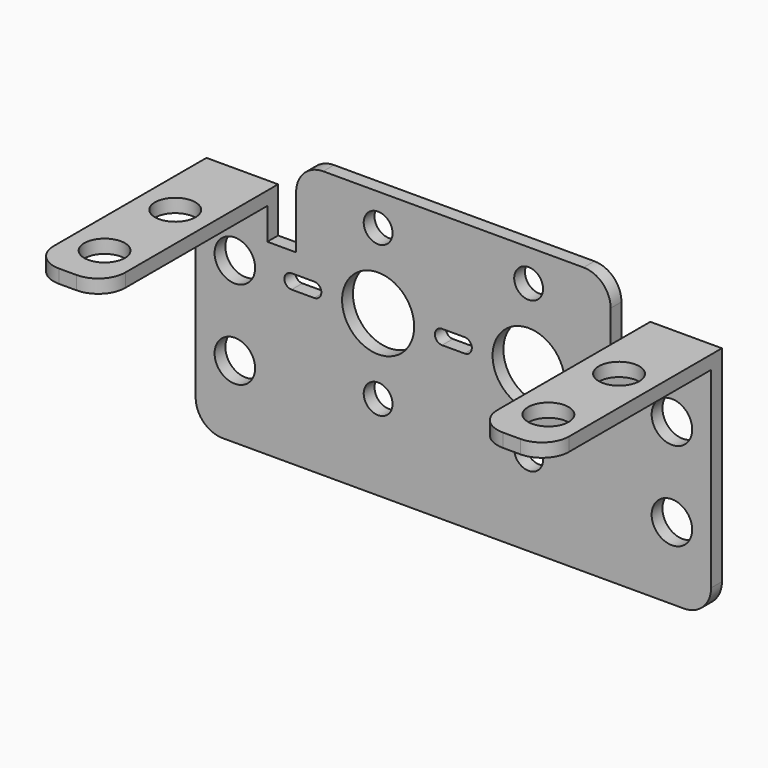
from build123d import *

# Parameters (mm, degrees)
F1_DEPTH = 1.5
F2_W     = 7.95
F2_H     = 1.5
F3_DEPTH = 22.7
F4_R     = 3
F5_R     = 2.25
F6_DEPTH = 1.5
F7_R     = 4
F7_R_2   = 1.6
F7_R_3   = 2.25
F8_DEPTH = 1.6


with BuildPart() as f1:
    # F0 (on Front) → F1 (new body)
    with BuildSketch(Plane.XZ):
        with BuildLine():
            Line((-25.6, -14.85), (25.6, -14.85))
            ThreePointArc((25.6, -14.85), (27.72132, -13.97132), (28.6, -11.85))
            Line((28.6, -11.85), (28.6, 10.95))
            Line((28.6, 10.95), (20.65, 10.95))
            Line((20.65, 10.95), (20.65, 5.95))
            Line((20.65, 5.95), (17.45, 5.95))
            Line((17.45, 5.95), (17.45, 11.85))
            ThreePointArc((17.45, 11.85), (16.57132, 13.97132), (14.45, 14.85))
            Line((14.45, 14.85), (-14.45, 14.85))
            ThreePointArc((-14.45, 14.85), (-16.57132, 13.97132), (-17.45, 11.85))
            Line((-17.45, 11.85), (-17.45, 5.95))
            Line((-17.45, 5.95), (-20.65, 5.95))
            Line((-20.65, 5.95), (-20.65, 10.95))
            Line((-20.65, 10.95), (-28.6, 10.95))
            Line((-28.6, 10.95), (-28.6, -11.85))
            ThreePointArc((-28.6, -11.85), (-27.72132, -13.97132), (-25.6, -14.85))
        make_face()
    extrude(amount=F1_DEPTH)

    # F2 (on face) → F3 (join)
    with BuildSketch(Plane.XZ.offset(1.5)):
        with Locations((-24.625, 10.2)):
            Rectangle(F2_W, F2_H)
        with Locations((24.625, 10.2)):
            Rectangle(F2_W, F2_H)
    extrude(amount=F3_DEPTH)

    # F4
    f4_edges = [f1.edges().sort_by_distance(p)[0] for p in [
        (-28.6, -24.2, 10.2),
        (-20.65, -24.2, 10.2),
        (20.65, -24.2, 10.2),
        (28.6, -24.2, 10.2),
    ]]
    fillet(f4_edges, radius=F4_R)

    # F5 (on face) → F6 (cut)
    with BuildSketch(Plane.XY.offset(10.95)):
        with Locations((24.625, -9.3)):
            Circle(F5_R)
        with Locations((24.625, -19.1)):
            Circle(F5_R)
        with Locations((-24.625, -9.3)):
            Circle(F5_R)
        with Locations((-24.625, -19.1)):
            Circle(F5_R)
    extrude(amount=-F6_DEPTH, mode=Mode.SUBTRACT)

    # F7 (on face) → F8 (cut)
    with BuildSketch(Plane.XZ.offset(1.5)):
        with BuildLine():
            ThreePointArc((-26.5, 2.95), (-24.25, 0.7), (-22, 2.95))
            ThreePointArc((-22, 2.95), (-24.25, 5.2), (-26.5, 2.95))
        make_face()
        with BuildLine():
            Line((-15.45, 3.75), (-17.95, 3.75))
            ThreePointArc((-17.95, 3.75), (-18.75, 2.95), (-17.95, 2.15))
            Line((-17.95, 2.15), (-15.45, 2.15))
            ThreePointArc((-15.45, 2.15), (-14.65, 2.95), (-15.45, 3.75))
        make_face()
        with Locations((-8.35, 2.95)):
            Circle(F7_R)
        with Locations((-8.35, 11.3)):
            Circle(F7_R_2)
        with Locations((-8.35, -5.4)):
            Circle(F7_R_2)
        with Locations((8.35, 2.95)):
            Circle(F7_R)
        with Locations((8.35, 11.3)):
            Circle(F7_R_2)
        with Locations((8.35, -5.4)):
            Circle(F7_R_2)
        with BuildLine():
            ThreePointArc((15.45, 3.75), (14.65, 2.95), (15.45, 2.15))
            Line((15.45, 2.15), (17.95, 2.15))
            ThreePointArc((17.95, 2.15), (18.75, 2.95), (17.95, 3.75))
            Line((17.95, 3.75), (15.45, 3.75))
        make_face()
        with Locations((24.25, 2.95)):
            Circle(F7_R_3)
        with BuildLine():
            ThreePointArc((-1.25, 3.75), (-2.05, 2.95), (-1.25, 2.15))
            Line((-1.25, 2.15), (1.25, 2.15))
            ThreePointArc((1.25, 2.15), (2.05, 2.95), (1.25, 3.75))
            Line((1.25, 3.75), (-1.25, 3.75))
        make_face()
        with Locations((-24.25, -6.85)):
            Circle(F7_R_3)
        with Locations((24.25, -6.85)):
            Circle(F7_R_3)
    extrude(amount=-F8_DEPTH, mode=Mode.SUBTRACT)


solid = f1.part
